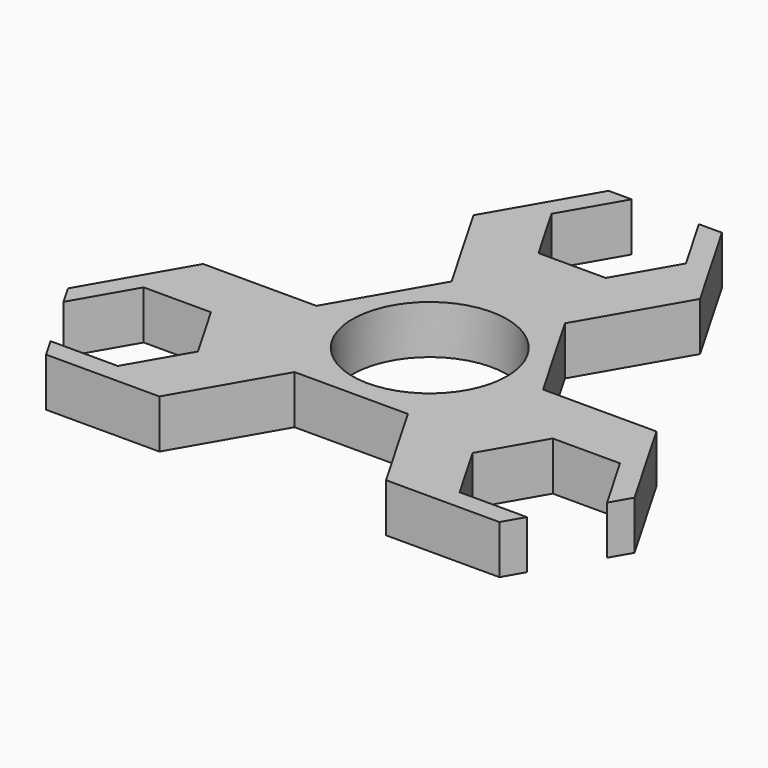
from build123d import *

# Parameters (mm, degrees)
F0_R     = 11.15
F1_DEPTH = 7


with BuildPart() as f1:
    # F0 (on Top) → F1 (new body)
    with BuildSketch(Plane.XY):
        Polygon((-16.339013, 28.3), (-8.169506, 14.15), (8.169506, 14.15), (16.339013, 28.3), (8.169506, 42.45), (4.846856, 42.45), (9.693711, 34.055), (4.846856, 25.66), (-4.846856, 25.66), (-9.693711, 34.055), (-4.846856, 42.45), (-8.169506, 42.45), align=None)
        Polygon((8.169506, 14.15), (-8.169506, 14.15), (-16.339013, 0), (-8.169506, -14.15), (8.169506, -14.15), (16.339013, 0), align=None)
        Circle(F0_R, mode=Mode.SUBTRACT)
        Polygon((-8.169506, -14.15), (-16.339013, 0), (-32.678025, 0), (-40.847532, -14.15), (-40.379653, -14.96039), (-39.186206, -17.0275), (-34.339351, -8.6325), (-24.64564, -8.6325), (-19.798784, -17.0275), (-24.64564, -25.4225), (-34.339351, -25.4225), (-33.145904, -27.48961), (-32.678025, -28.3), (-16.339013, -28.3), align=None)
        Polygon((32.678025, 0), (16.339013, 0), (8.169506, -14.15), (16.339013, -28.3), (32.678025, -28.3), (34.339351, -25.4225), (24.64564, -25.4225), (19.798784, -17.0275), (24.64564, -8.6325), (34.339351, -8.6325), (39.186206, -17.0275), (40.847532, -14.15), align=None)
    extrude(amount=F1_DEPTH)


solid = f1.part
